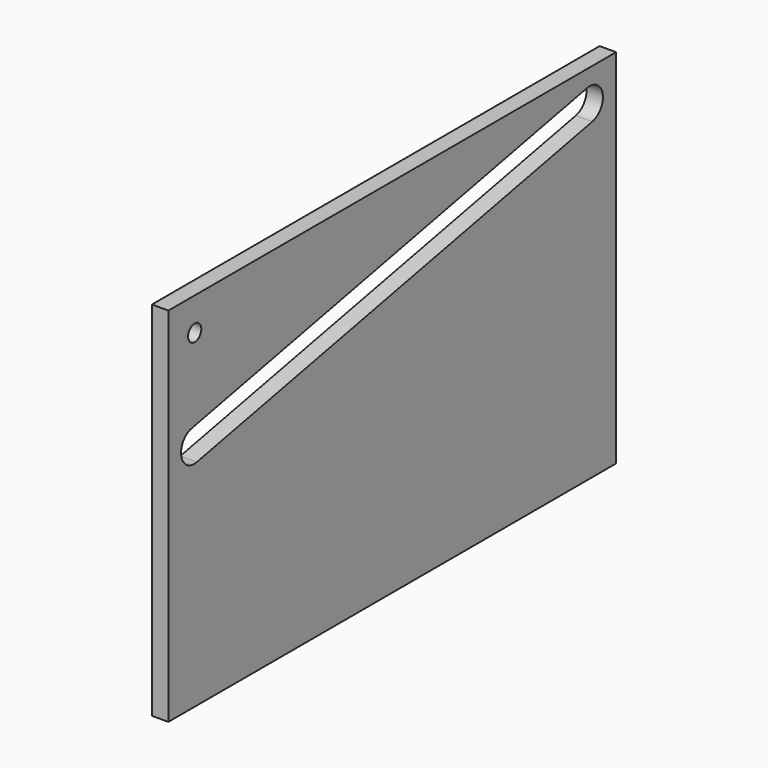
from build123d import *

# Parameters (mm, degrees)
F0_W     = 215.9
F0_H     = 139.7
F0_R     = 3.175
F1_DEPTH = 6.35


with BuildPart() as f1:
    # F0 (on Right) → F1 (new body)
    with BuildSketch(Plane.YZ):
        with Locations((107.95, 69.85)):
            Rectangle(F0_W, F0_H)
        with Locations((12.7, 127)):
            Circle(F0_R, mode=Mode.SUBTRACT)
        with BuildLine():
            Line((204.443743, 120.772994), (13.689743, 82.672994))
            ThreePointArc((13.689743, 82.672994), (6.218994, 87.656257), (11.202257, 95.127006))
            Line((11.202257, 95.127006), (201.956257, 133.227006))
            ThreePointArc((201.956257, 133.227006), (209.427006, 128.243743), (204.443743, 120.772994))
        make_face(mode=Mode.SUBTRACT)
    extrude(amount=F1_DEPTH)


solid = f1.part
